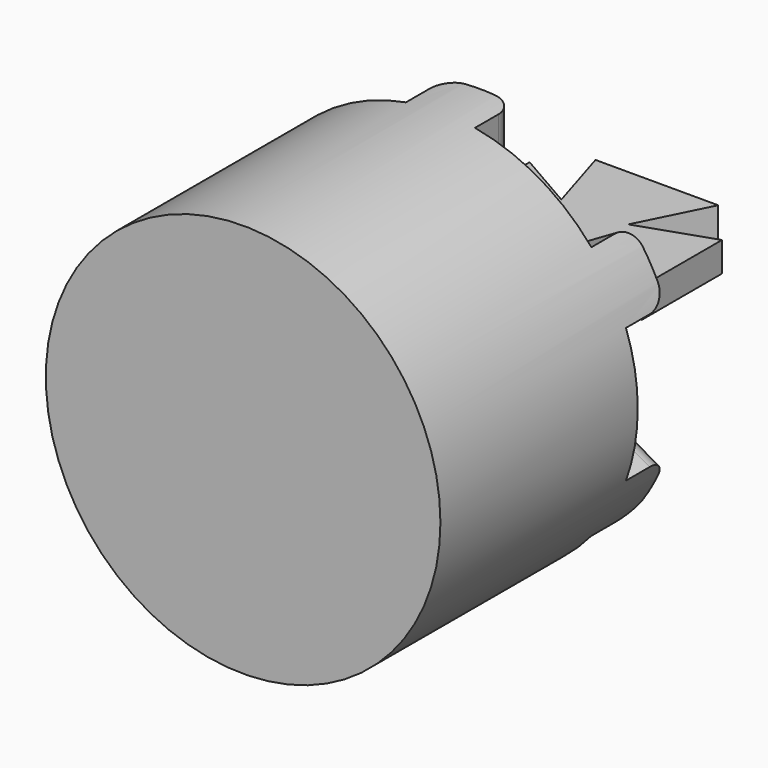
from build123d import *

# Parameters (mm, degrees)
F0_R     = 20
F1_DEPTH = 30
F2_R     = 15
F3_DEPTH = 10
F5_DEPTH = 5
F6_R     = 2
F8_DEPTH = 3


with BuildPart() as f1:
    # F0 (on Front) → F1 (new body)
    with BuildSketch(Plane.XZ):
        Circle(F0_R)
    extrude(amount=-F1_DEPTH)

    # F2 (on face) → F3 (cut)
    with BuildSketch(Plane(origin=(0, 30, 0), x_dir=(-1, 0, 0), z_dir=(0, 1, 0))):
        Circle(F2_R)
    extrude(amount=-F3_DEPTH, mode=Mode.SUBTRACT)

    # F4 (on face) → F5 (cut)
    with BuildSketch(Plane(origin=(0, 30, 0), x_dir=(-1, 0, 0), z_dir=(0, 1, 0))):
        with BuildLine():
            Line((-3.5, -19.691369), (-3.5, -14.585952))
            Line((-3.5, -14.585952), (3.5, -14.585952))
            Line((3.5, -14.585952), (3.5, -19.691369))
            ThreePointArc((3.5, -19.691369), (10, -17.320508), (15.303226, -12.876773))
            Line((15.303226, -12.876773), (10.881805, -10.324065))
            Line((10.881805, -10.324065), (14.381805, -4.261887))
            Line((14.381805, -4.261887), (18.803226, -6.814595))
            ThreePointArc((18.803226, -6.814595), (19.698534, -3.459443), (20, 0))
            ThreePointArc((20, 0), (19.698534, 3.459443), (18.803226, 6.814595))
            Line((18.803226, 6.814595), (14.381805, 4.261887))
            Line((14.381805, 4.261887), (10.881805, 10.324065))
            Line((10.881805, 10.324065), (15.303226, 12.876773))
            ThreePointArc((15.303226, 12.876773), (10, 17.320508), (3.5, 19.691369))
            Line((3.5, 19.691369), (3.5, 14.585952))
            Line((3.5, 14.585952), (-3.5, 14.585952))
            Line((-3.5, 14.585952), (-3.5, 19.691369))
            ThreePointArc((-3.5, 19.691369), (-10, 17.320508), (-15.303226, 12.876773))
            Line((-15.303226, 12.876773), (-10.881805, 10.324065))
            Line((-10.881805, 10.324065), (-14.381805, 4.261887))
            Line((-14.381805, 4.261887), (-18.803226, 6.814595))
            ThreePointArc((-18.803226, 6.814595), (-20, 0), (-18.803226, -6.814595))
            Line((-18.803226, -6.814595), (-14.381805, -4.261887))
            Line((-14.381805, -4.261887), (-10.881805, -10.324065))
            Line((-10.881805, -10.324065), (-15.303226, -12.876773))
            ThreePointArc((-15.303226, -12.876773), (-10, -17.320508), (-3.5, -19.691369))
        make_face()
        with BuildLine():
            Line((-3.5, -19.691369), (-3.5, -14.585952))
            Line((-3.5, -14.585952), (3.5, -14.585952))
            Line((3.5, -14.585952), (3.5, -19.691369))
            ThreePointArc((3.5, -19.691369), (10, -17.320508), (15.303226, -12.876773))
            Line((15.303226, -12.876773), (10.881805, -10.324065))
            Line((10.881805, -10.324065), (14.381805, -4.261887))
            Line((14.381805, -4.261887), (18.803226, -6.814595))
            ThreePointArc((18.803226, -6.814595), (19.698534, -3.459443), (20, 0))
            ThreePointArc((20, 0), (19.698534, 3.459443), (18.803226, 6.814595))
            Line((18.803226, 6.814595), (14.381805, 4.261887))
            Line((14.381805, 4.261887), (10.881805, 10.324065))
            Line((10.881805, 10.324065), (15.303226, 12.876773))
            ThreePointArc((15.303226, 12.876773), (10, 17.320508), (3.5, 19.691369))
            Line((3.5, 19.691369), (3.5, 14.585952))
            Line((3.5, 14.585952), (-3.5, 14.585952))
            Line((-3.5, 14.585952), (-3.5, 19.691369))
            ThreePointArc((-3.5, 19.691369), (-10, 17.320508), (-15.303226, 12.876773))
            Line((-15.303226, 12.876773), (-10.881805, 10.324065))
            Line((-10.881805, 10.324065), (-14.381805, 4.261887))
            Line((-14.381805, 4.261887), (-18.803226, 6.814595))
            ThreePointArc((-18.803226, 6.814595), (-20, 0), (-18.803226, -6.814595))
            Line((-18.803226, -6.814595), (-14.381805, -4.261887))
            Line((-14.381805, -4.261887), (-10.881805, -10.324065))
            Line((-10.881805, -10.324065), (-15.303226, -12.876773))
            ThreePointArc((-15.303226, -12.876773), (-10, -17.320508), (-3.5, -19.691369))
        make_face()
        with BuildLine():
            Line((-3.5, -19.691369), (-3.5, -14.585952))
            Line((-3.5, -14.585952), (3.5, -14.585952))
            Line((3.5, -14.585952), (3.5, -19.691369))
            ThreePointArc((3.5, -19.691369), (10, -17.320508), (15.303226, -12.876773))
            Line((15.303226, -12.876773), (10.881805, -10.324065))
            Line((10.881805, -10.324065), (14.381805, -4.261887))
            Line((14.381805, -4.261887), (18.803226, -6.814595))
            ThreePointArc((18.803226, -6.814595), (19.698534, -3.459443), (20, 0))
            ThreePointArc((20, 0), (19.698534, 3.459443), (18.803226, 6.814595))
            Line((18.803226, 6.814595), (14.381805, 4.261887))
            Line((14.381805, 4.261887), (10.881805, 10.324065))
            Line((10.881805, 10.324065), (15.303226, 12.876773))
            ThreePointArc((15.303226, 12.876773), (10, 17.320508), (3.5, 19.691369))
            Line((3.5, 19.691369), (3.5, 14.585952))
            Line((3.5, 14.585952), (-3.5, 14.585952))
            Line((-3.5, 14.585952), (-3.5, 19.691369))
            ThreePointArc((-3.5, 19.691369), (-10, 17.320508), (-15.303226, 12.876773))
            Line((-15.303226, 12.876773), (-10.881805, 10.324065))
            Line((-10.881805, 10.324065), (-14.381805, 4.261887))
            Line((-14.381805, 4.261887), (-18.803226, 6.814595))
            ThreePointArc((-18.803226, 6.814595), (-20, 0), (-18.803226, -6.814595))
            Line((-18.803226, -6.814595), (-14.381805, -4.261887))
            Line((-14.381805, -4.261887), (-10.881805, -10.324065))
            Line((-10.881805, -10.324065), (-15.303226, -12.876773))
            ThreePointArc((-15.303226, -12.876773), (-10, -17.320508), (-3.5, -19.691369))
        make_face()
        with BuildLine():
            Line((-3.5, -19.691369), (-3.5, -14.585952))
            Line((-3.5, -14.585952), (3.5, -14.585952))
            Line((3.5, -14.585952), (3.5, -19.691369))
            ThreePointArc((3.5, -19.691369), (10, -17.320508), (15.303226, -12.876773))
            Line((15.303226, -12.876773), (10.881805, -10.324065))
            Line((10.881805, -10.324065), (14.381805, -4.261887))
            Line((14.381805, -4.261887), (18.803226, -6.814595))
            ThreePointArc((18.803226, -6.814595), (19.698534, -3.459443), (20, 0))
            ThreePointArc((20, 0), (19.698534, 3.459443), (18.803226, 6.814595))
            Line((18.803226, 6.814595), (14.381805, 4.261887))
            Line((14.381805, 4.261887), (10.881805, 10.324065))
            Line((10.881805, 10.324065), (15.303226, 12.876773))
            ThreePointArc((15.303226, 12.876773), (10, 17.320508), (3.5, 19.691369))
            Line((3.5, 19.691369), (3.5, 14.585952))
            Line((3.5, 14.585952), (-3.5, 14.585952))
            Line((-3.5, 14.585952), (-3.5, 19.691369))
            ThreePointArc((-3.5, 19.691369), (-10, 17.320508), (-15.303226, 12.876773))
            Line((-15.303226, 12.876773), (-10.881805, 10.324065))
            Line((-10.881805, 10.324065), (-14.381805, 4.261887))
            Line((-14.381805, 4.261887), (-18.803226, 6.814595))
            ThreePointArc((-18.803226, 6.814595), (-20, 0), (-18.803226, -6.814595))
            Line((-18.803226, -6.814595), (-14.381805, -4.261887))
            Line((-14.381805, -4.261887), (-10.881805, -10.324065))
            Line((-10.881805, -10.324065), (-15.303226, -12.876773))
            ThreePointArc((-15.303226, -12.876773), (-10, -17.320508), (-3.5, -19.691369))
        make_face()
        with BuildLine():
            Line((-3.5, -19.691369), (-3.5, -14.585952))
            Line((-3.5, -14.585952), (3.5, -14.585952))
            Line((3.5, -14.585952), (3.5, -19.691369))
            ThreePointArc((3.5, -19.691369), (10, -17.320508), (15.303226, -12.876773))
            Line((15.303226, -12.876773), (10.881805, -10.324065))
            Line((10.881805, -10.324065), (14.381805, -4.261887))
            Line((14.381805, -4.261887), (18.803226, -6.814595))
            ThreePointArc((18.803226, -6.814595), (19.698534, -3.459443), (20, 0))
            ThreePointArc((20, 0), (19.698534, 3.459443), (18.803226, 6.814595))
            Line((18.803226, 6.814595), (14.381805, 4.261887))
            Line((14.381805, 4.261887), (10.881805, 10.324065))
            Line((10.881805, 10.324065), (15.303226, 12.876773))
            ThreePointArc((15.303226, 12.876773), (10, 17.320508), (3.5, 19.691369))
            Line((3.5, 19.691369), (3.5, 14.585952))
            Line((3.5, 14.585952), (-3.5, 14.585952))
            Line((-3.5, 14.585952), (-3.5, 19.691369))
            ThreePointArc((-3.5, 19.691369), (-10, 17.320508), (-15.303226, 12.876773))
            Line((-15.303226, 12.876773), (-10.881805, 10.324065))
            Line((-10.881805, 10.324065), (-14.381805, 4.261887))
            Line((-14.381805, 4.261887), (-18.803226, 6.814595))
            ThreePointArc((-18.803226, 6.814595), (-20, 0), (-18.803226, -6.814595))
            Line((-18.803226, -6.814595), (-14.381805, -4.261887))
            Line((-14.381805, -4.261887), (-10.881805, -10.324065))
            Line((-10.881805, -10.324065), (-15.303226, -12.876773))
            ThreePointArc((-15.303226, -12.876773), (-10, -17.320508), (-3.5, -19.691369))
        make_face()
        with BuildLine():
            Line((-3.5, -19.691369), (-3.5, -14.585952))
            Line((-3.5, -14.585952), (3.5, -14.585952))
            Line((3.5, -14.585952), (3.5, -19.691369))
            ThreePointArc((3.5, -19.691369), (10, -17.320508), (15.303226, -12.876773))
            Line((15.303226, -12.876773), (10.881805, -10.324065))
            Line((10.881805, -10.324065), (14.381805, -4.261887))
            Line((14.381805, -4.261887), (18.803226, -6.814595))
            ThreePointArc((18.803226, -6.814595), (19.698534, -3.459443), (20, 0))
            ThreePointArc((20, 0), (19.698534, 3.459443), (18.803226, 6.814595))
            Line((18.803226, 6.814595), (14.381805, 4.261887))
            Line((14.381805, 4.261887), (10.881805, 10.324065))
            Line((10.881805, 10.324065), (15.303226, 12.876773))
            ThreePointArc((15.303226, 12.876773), (10, 17.320508), (3.5, 19.691369))
            Line((3.5, 19.691369), (3.5, 14.585952))
            Line((3.5, 14.585952), (-3.5, 14.585952))
            Line((-3.5, 14.585952), (-3.5, 19.691369))
            ThreePointArc((-3.5, 19.691369), (-10, 17.320508), (-15.303226, 12.876773))
            Line((-15.303226, 12.876773), (-10.881805, 10.324065))
            Line((-10.881805, 10.324065), (-14.381805, 4.261887))
            Line((-14.381805, 4.261887), (-18.803226, 6.814595))
            ThreePointArc((-18.803226, 6.814595), (-20, 0), (-18.803226, -6.814595))
            Line((-18.803226, -6.814595), (-14.381805, -4.261887))
            Line((-14.381805, -4.261887), (-10.881805, -10.324065))
            Line((-10.881805, -10.324065), (-15.303226, -12.876773))
            ThreePointArc((-15.303226, -12.876773), (-10, -17.320508), (-3.5, -19.691369))
        make_face()
    extrude(amount=-F5_DEPTH, mode=Mode.SUBTRACT)

    # F6
    f6_edges = [f1.edges().sort_by_distance(p)[0] for p in [
        (-3.5, 30, -17.13866),
        (3.5, 30, -17.13866),
        (13.092515, 30, -11.600419),
        (16.592515, 30, -5.538241),
        (16.592515, 30, 5.538241),
        (3.5, 30, 17.13866),
        (-3.5, 30, 17.13866),
        (-13.092515, 30, 11.600419),
        (-16.592515, 30, 5.538241),
        (-16.592515, 30, -5.538241),
        (-13.092515, 30, -11.600419),
        (13.092515, 30, 11.600419),
    ]]
    fillet(f6_edges, radius=F6_R)


with BuildPart() as f8:
    # F7 (on Top) → F8 (new body)
    with BuildSketch(Plane.XY):
        Polygon((-3.510108, 40.17261), (-3.510108, 30.129371), (3.228583, 30.194167), (3.228583, 39.978229), (10.744815, 37.062448), (10.744815, 47.235277), (3.293378, 44.708267), (6.792313, 51.706139), (-5.648347, 51.706139), (-3.510108, 44.708267), (-9.471257, 48.142411), (-9.471257, 37.062448), align=None)
    extrude(amount=F8_DEPTH)


solid = Compound([f1.part, f8.part])
